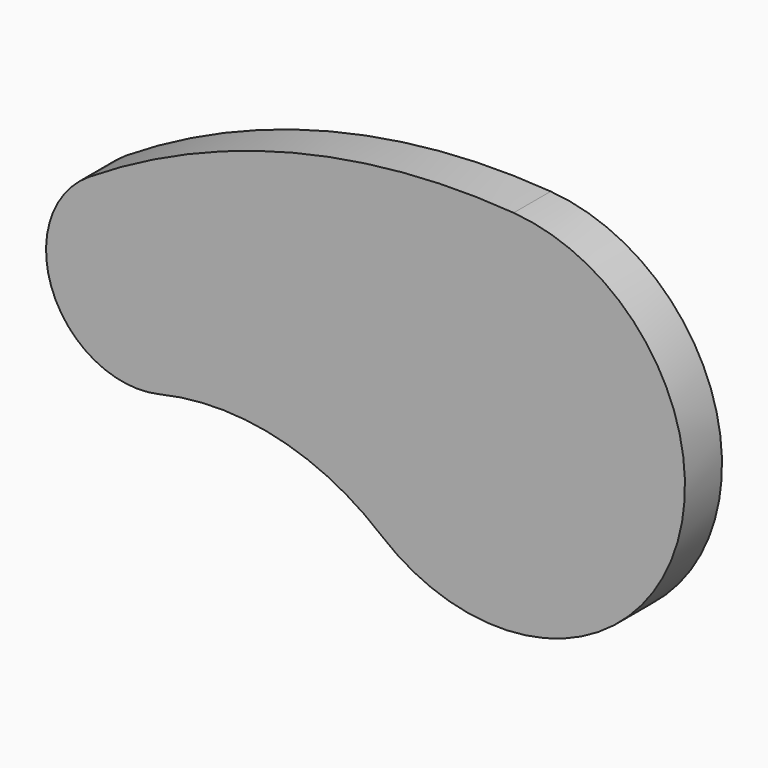
from build123d import *

# Parameters (mm, degrees)
F1_DEPTH = 10


with BuildPart() as f1:
    # F0 (on Front) → F1 (new body)
    with BuildSketch(Plane.XZ):
        with BuildLine():
            ThreePointArc((-73.411966, -19.466637), (-48.17673, -19.466884), (-25.597841, -30.736795))
            ThreePointArc((-25.597841, -30.736795), (37.077019, -15.009819), (2.993007, 39.887867))
            ThreePointArc((2.993007, 39.887867), (-44.731344, 35.799631), (-88.733728, 16.875636))
            ThreePointArc((-88.733728, 16.875636), (-96.429123, -7.769647), (-73.411966, -19.466637))
        make_face()
    extrude(amount=F1_DEPTH)


solid = f1.part
